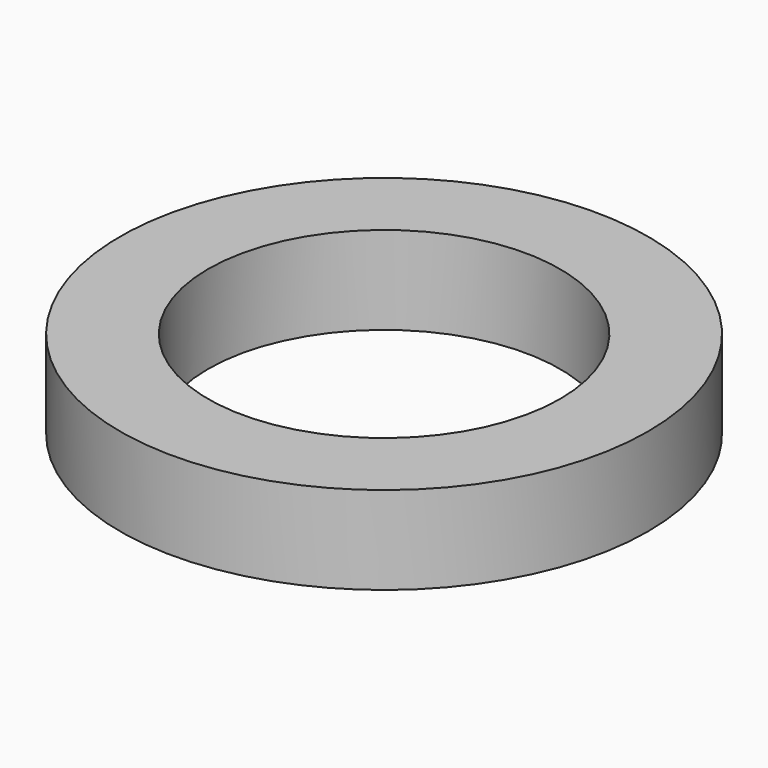
from build123d import *

# Parameters (mm, degrees)
SKETCH_R   = 9
SKETCH_R_2 = 6
PAD_DEPTH  = 3


with BuildPart() as part:
    # Sketch → Pad (new body)
    with BuildSketch(Plane.XY):
        Circle(SKETCH_R)
        Circle(SKETCH_R_2, mode=Mode.SUBTRACT)
    extrude(amount=PAD_DEPTH)


solid = part.part
